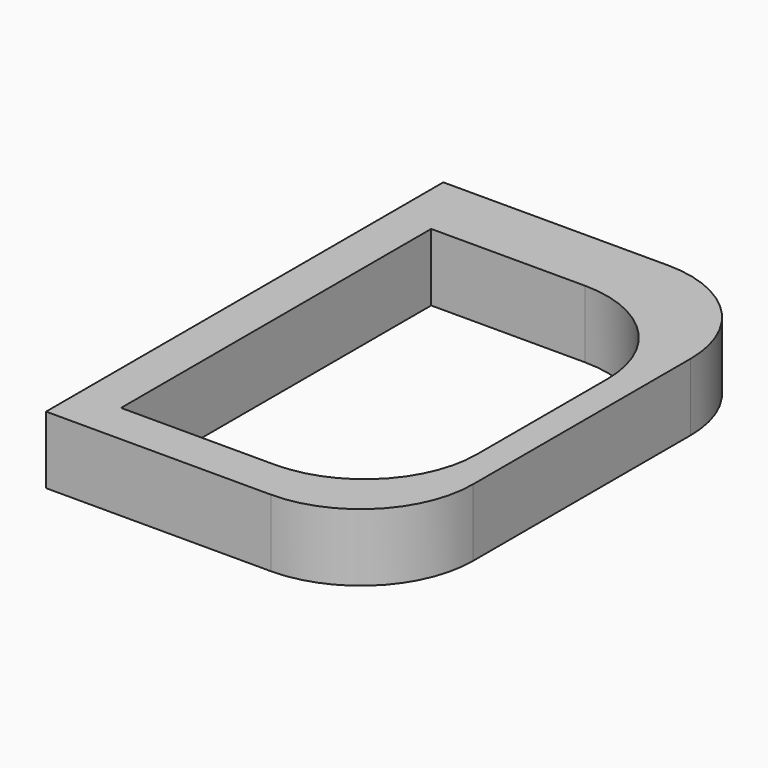
from build123d import *

# Parameters (mm, degrees)
PAD_DEPTH    = 3
POCKET_DEPTH = 3.001


with BuildPart() as part:
    # Sketch → Pad (new body)
    with BuildSketch(Plane.XY):
        with BuildLine():
            Line((0, 11.045), (10, 11.045))
            ThreePointArc((15, 6.045), (13.535534, 9.580534), (10, 11.045))
            Line((15, 6.045), (15, -6.045))
            ThreePointArc((10, -11.045), (13.535534, -9.580534), (15, -6.045))
            Line((10, -11.045), (0, -11.045))
            Line((0, -11.045), (0, 11.045))
        make_face()
    extrude(amount=PAD_DEPTH)

    # Sketch001 → Pocket (cut, through all)
    with BuildSketch(Plane.XY):
        with BuildLine():
            Line((1.860247, 8.045), (8.695431, 8.045))
            ThreePointArc((13.695431, 3.045), (12.230965, 6.580534), (8.695431, 8.045))
            Line((13.695431, 3.045), (13.695431, -4.201112))
            ThreePointArc((8.695431, -9.201112), (12.230965, -7.736646), (13.695431, -4.201112))
            Line((8.695431, -9.201112), (1.860247, -9.201112))
            Line((1.860247, -9.201112), (1.860247, 8.045))
        make_face()
    extrude(amount=POCKET_DEPTH, mode=Mode.SUBTRACT)


solid = part.part
